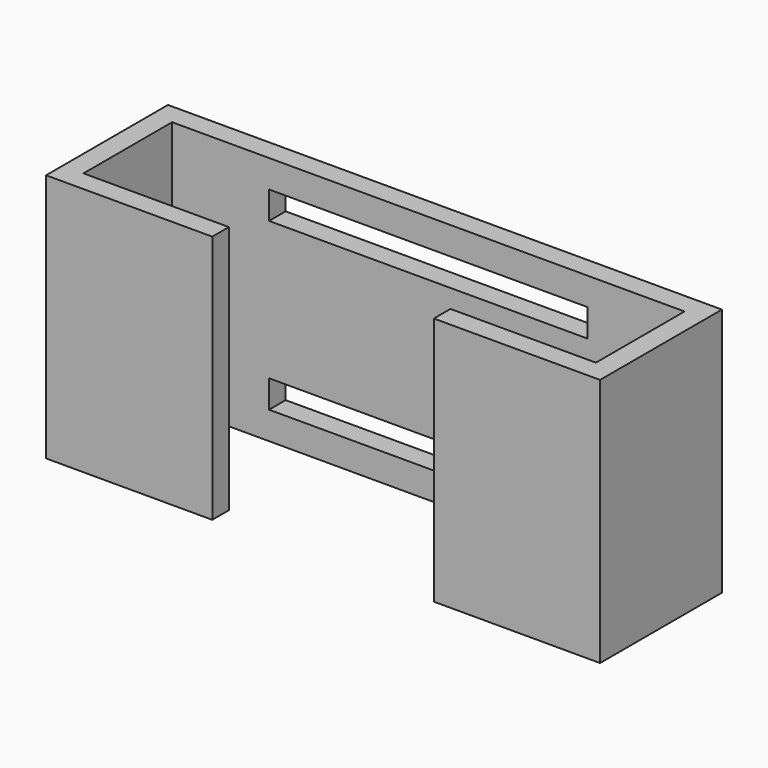
from build123d import *

# Parameters (mm, degrees)
F1_DEPTH = 18
F2_W     = 23
F2_H     = 2
F3_DEPTH = 2


with BuildPart() as f1:
    # F0 (on Top) → F1 (new body)
    with BuildSketch(Plane.XY):
        Polygon((-18.5, 4), (18.5, 4), (18.5, -4), (8, -4), (8, -5.5), (20, -5.5), (20, 5.5), (-20, 5.5), (-20, -5.5), (-8, -5.5), (-8, -4), (-18.5, -4), align=None)
    extrude(amount=F1_DEPTH)

    # F2 (on face) → F3 (cut)
    with BuildSketch(Plane(origin=(0, 5.5, 0), x_dir=(-1, 0, 0), z_dir=(0, 1, 0))):
        with Locations((0, 15)):
            Rectangle(F2_W, F2_H)
        with Locations((0, 3)):
            Rectangle(F2_W, F2_H)
    extrude(amount=-F3_DEPTH, mode=Mode.SUBTRACT)


solid = f1.part
